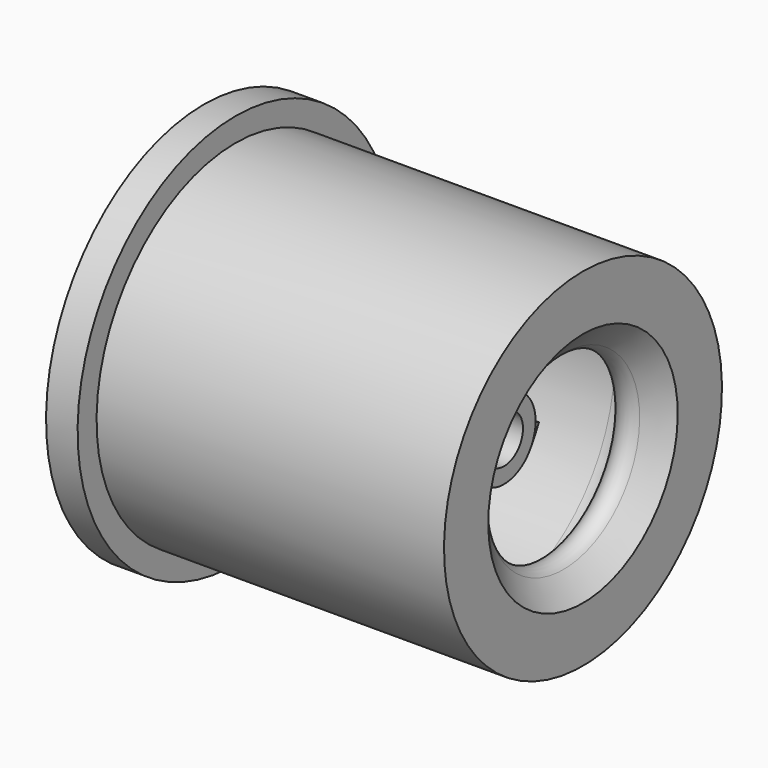
from build123d import *

# Parameters (mm, degrees)
F3_R      = 2.5
F4_DEPTH  = 6
F6_DEPTH  = 1
F7_COUNT  = 3
F9_R      = 1.5
F10_DEPTH = 25


with BuildPart() as f1:
    # F0 (on Front) → F1 (revolve)
    with BuildSketch(Plane.XZ):
        with BuildLine():
            Line((-24, 12.5), (-24, 10))
            Line((-24, 10), (-6, 10))
            ThreePointArc((-6, 10), (-3.8786796564, 9.1213203436), (-3, 7))
            Line((-3, 7), (-3, 6.6722166417))
            ThreePointArc((-3, 6.6722166417), (-2.3420201433, 5.7325240209), (-1.2339555569, 6.029429032))
            Line((-1.2339555569, 6.029429032), (0, 7.5))
            Line((0, 7.5), (0, 11))
            Line((0, 11), (-22, 11))
            Line((-22, 11), (-22, 12.5))
            Line((-22, 12.5), (-24, 12.5))
        make_face()
    revolve(axis=Axis((0, 0, 0), (1, 0, 0)))



with BuildPart() as f4:
    # F3 (on offset) → F4 (new body)
    with BuildSketch(Plane.YZ.offset(-11)):
        Circle(F3_R)
    extrude(amount=F4_DEPTH)


with BuildPart() as f1_1:
    add(f1.part)

    add(f4.part)  # F6 merges F4
    # F5 (on face) → F6 (join)
    with BuildSketch(Plane(origin=(-11, 0, 0), x_dir=(0, -1, 0), z_dir=(-1, 0, 0))):
        with BuildLine():
            Line((0.75, 2.3848480035), (0.75, 9.9718353376))
            ThreePointArc((0.75, 9.9718353376), (0, 10), (-0.75, 9.9718353376))
            Line((-0.75, 9.9718353376), (-0.75, 2.3848480035))
            ThreePointArc((-0.75, 2.3848480035), (0, 2.5), (0.75, 2.3848480035))
        make_face()
    extrude(amount=-F6_DEPTH)


with BuildPart() as f7_1:
    # F7: instance of F1
    add(f1_1.part.rotate(Axis((-11, 0, 0), (1, 0, 0)), 1 * 360 / F7_COUNT))


with BuildPart() as f7_2:
    # F7: instance of F1
    add(f1_1.part.rotate(Axis((-11, 0, 0), (1, 0, 0)), 2 * 360 / F7_COUNT))


with BuildPart() as f1_2:
    add(f1_1.part)

    # F8: union F7_2, F7_1
    add(f7_2.part)
    add(f7_1.part)

    # F9 (on face) → F10 (cut)
    with BuildSketch(Plane(origin=(-11, 0, 0), x_dir=(0, -1, 0), z_dir=(-1, 0, 0))):
        Circle(F9_R)
    extrude(amount=-F10_DEPTH, mode=Mode.SUBTRACT)


solid = f1_2.part
